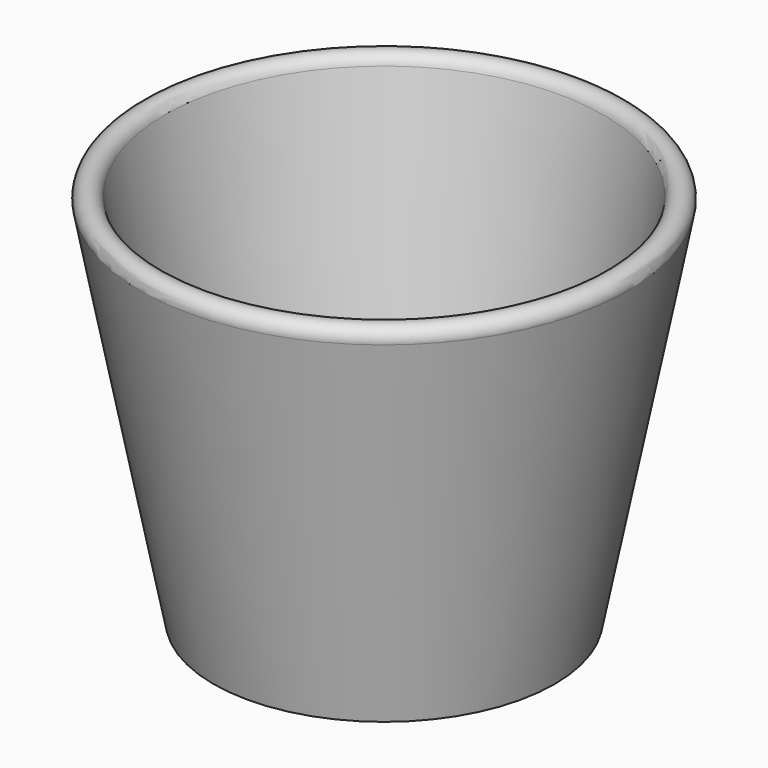
from build123d import *


with BuildPart() as f1:
    # F0 (on Right) → F1 (revolve)
    with BuildSketch(Plane.YZ):
        with BuildLine():
            ThreePointArc((-57.15, 46.130513), (-60.877888, 48.633331), (-63.380706, 44.905442))
            Line((-63.380706, 44.905442), (-57.15, 46.130513))
        make_face()
        Polygon((-63.380706, 44.905442), (-44.45, -51.376107), (-44.45, -50.106107), (-38.228128, -50.106107), (-57.15, 46.130513), align=None)
        Polygon((-44.45, -51.376107), (0, -51.376107), (0, -50.106107), (-38.228128, -50.106107), (-44.45, -50.106107), align=None)
    revolve(axis=Axis((0, 0, -50.741107), (0, 0, 1)))


solid = f1.part
